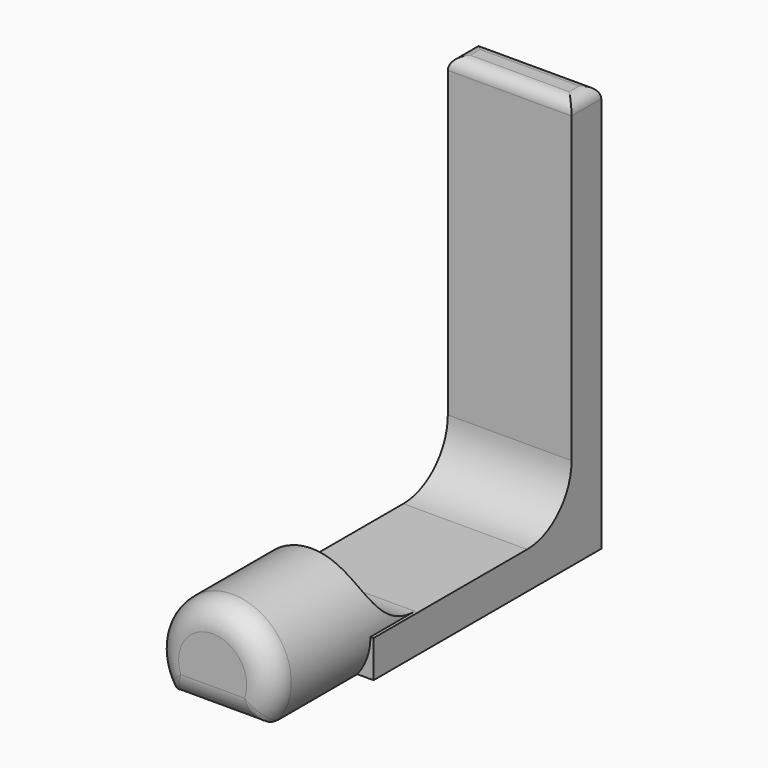
from build123d import *

# Parameters (mm, degrees)
PAD_DEPTH    = 10
SKETCH001_W  = 10
SKETCH001_H  = 23
PAD001_DEPTH = 3
SKETCH002_W  = 10
SKETCH002_H  = 3
PAD002_DEPTH = 30
FILLET_R     = 4.49
FILLET001_R  = 1
FILLET002_R  = 2


with BuildPart() as part:
    # Sketch → Pad (new body)
    with BuildSketch(Plane.XZ):
        with BuildLine():
            ThreePointArc((3.68273, 0), (0, 7.75), (-3.68273, 0))
            Line((-3.68273, 0), (3.68273, 0))
        make_face()
    extrude(amount=PAD_DEPTH)

    # Sketch001 → Pad001 (join)
    with BuildSketch(Plane.XY):
        with Locations((0, 11.5)):
            Rectangle(SKETCH001_W, SKETCH001_H)
    extrude(amount=PAD001_DEPTH)

    # Sketch002 (on Face7 of Pad001) → Pad002 (join)
    with BuildSketch(Plane(origin=(0, 0, 3), x_dir=(-1, 0, 0), z_dir=(0, 0, 1))):
        with Locations((0, -21.5)):
            Rectangle(SKETCH002_W, SKETCH002_H)
    extrude(amount=PAD002_DEPTH)

    # Fillet
    fillet_edges = [part.edges().sort_by_distance(p)[0] for p in [
        (0, 20, 3),
        (0, 0, 3),
    ]]
    fillet(fillet_edges, radius=FILLET_R)

    # Fillet001
    fillet001_edges = [part.edges().sort_by_distance(p)[0] for p in [
        (5, 21.5, 33),
        (0, 23, 33),
        (-5, 21.5, 33),
        (0, 20, 33),
    ]]
    fillet(fillet001_edges, radius=FILLET001_R)

    # Fillet002
    fillet002_edges = [part.edges().sort_by_distance(p)[0] for p in [
        (0, -10, 0),
        (0, -10, 7.75),
    ]]
    fillet(fillet002_edges, radius=FILLET002_R)


solid = part.part
